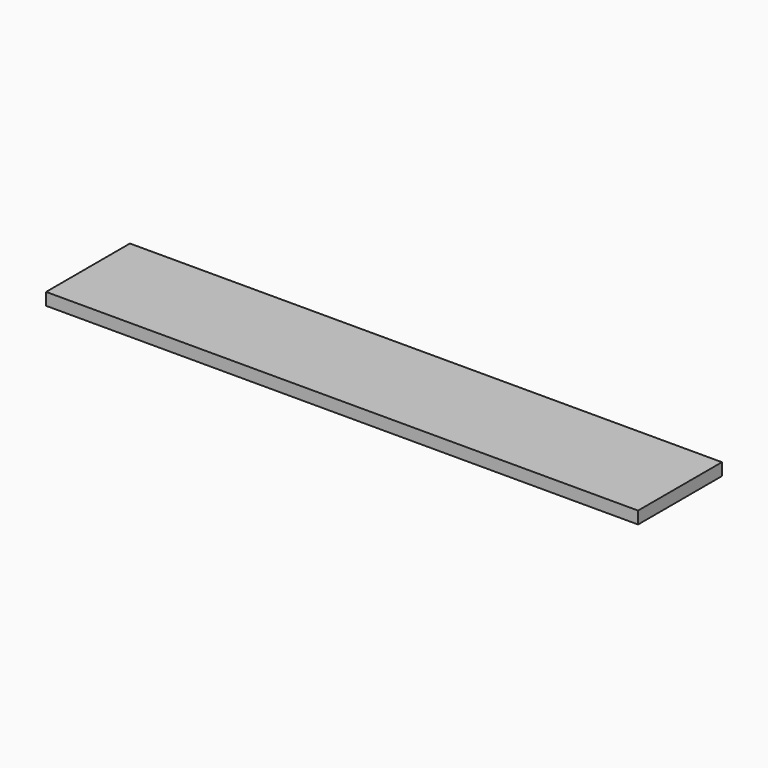
from build123d import *

# Parameters (mm, degrees)
SKETCH_W  = 573.88125
SKETCH_H  = 101.6
PAD_DEPTH = 11.90625


with BuildPart() as part:
    # Sketch → Pad (new body)
    with BuildSketch(Plane.XY):
        with Locations((0, -50.8)):
            Rectangle(SKETCH_W, SKETCH_H)
    extrude(amount=PAD_DEPTH)


solid = part.part
